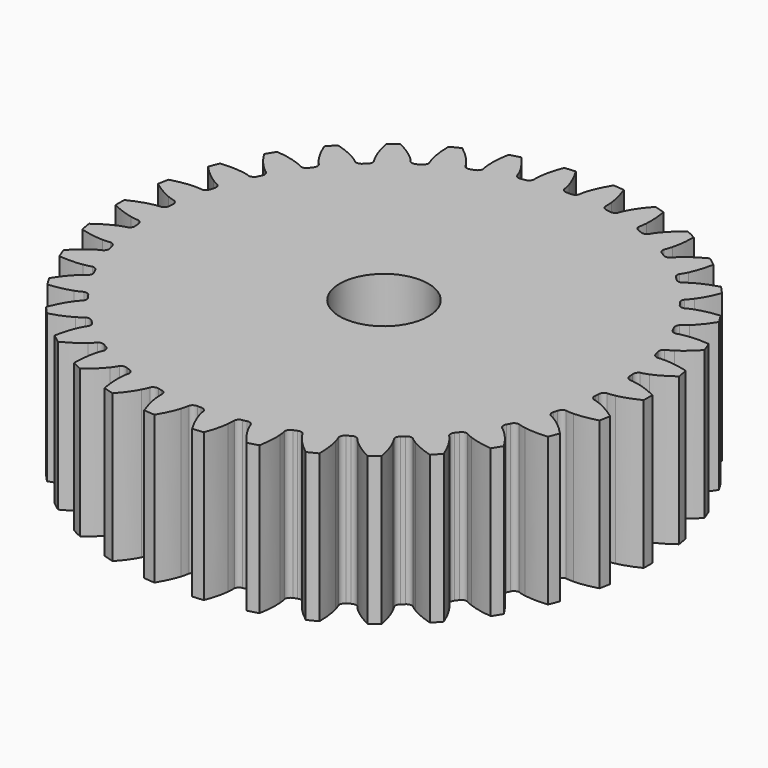
from build123d import *

# Parameters (mm, degrees)
FIRST_SUN_BORE_R        = 3
FIRST_SUN_BORE_DEPTH    = 10.1
FIRST_SUN_TRIMMED_DEPTH = 10


with BuildPart() as first_sun_bore:
    # first_sun_bore → first_sun_bore (new body)
    with BuildSketch(Plane.XY):
        Circle(FIRST_SUN_BORE_R)
    extrude(amount=FIRST_SUN_BORE_DEPTH)


with BuildPart() as first_sun:
    # first_sun_involute → first_sun_trimmed (new body)
    with BuildSketch(Plane.XY):
        with BuildLine():
            add(Edge.make_bspline(
                [(15.852769, -0.968939), (15.915021, -0.969213), (16.089876, -0.963644), (16.376696, -0.904957)],
                knots=[0, 0, 0, 0, 1, 1, 1, 1], degree=3))
            add(Edge.make_bspline(
                [(16.376696, -0.904957), (16.726092, -0.832791), (17.231559, -0.682528), (17.864782, -0.370965)],
                knots=[0, 0, 0, 0, 1, 1, 1, 1], degree=3))
            ThreePointArc((17.864782, -0.370965), (17.868633, 0), (17.864782, 0.370965))
            add(Edge.make_bspline(
                [(17.864782, 0.370965), (17.231559, 0.682528), (16.726092, 0.832791), (16.376696, 0.904957)],
                knots=[0, 0, 0, 0, 1, 1, 1, 1], degree=3))
            add(Edge.make_bspline(
                [(16.376696, 0.904957), (16.089876, 0.963644), (15.915021, 0.969213), (15.853231, 0.968932)],
                knots=[0, 0, 0, 0, 1, 1, 1, 1], degree=3))
            ThreePointArc((15.853231, 0.968932), (15.658677, 1.097378), (15.578676, 1.316352))
            ThreePointArc((15.578676, 1.316352), (15.567498, 1.442541), (15.555299, 1.568636))
            ThreePointArc((15.555299, 1.568636), (15.593543, 1.798433), (15.760888, 1.960498))
            add(Edge.make_bspline(
                [(15.760888, 1.960498), (15.822129, 1.971667), (15.992984, 2.00927), (16.264137, 2.119661)],
                knots=[0, 0, 0, 0, 1, 1, 1, 1], degree=3))
            add(Edge.make_bspline(
                [(16.264137, 2.119661), (16.594324, 2.2548), (17.063573, 2.495384), (17.628765, 2.917996)],
                knots=[0, 0, 0, 0, 1, 1, 1, 1], degree=3))
            ThreePointArc((17.628765, 2.917996), (17.564386, 3.283353), (17.492435, 3.647294))
            add(Edge.make_bspline(
                [(17.492435, 3.647294), (16.812745, 3.837198), (16.288274, 3.892023), (15.931566, 3.898759)],
                knots=[0, 0, 0, 0, 1, 1, 1, 1], degree=3))
            add(Edge.make_bspline(
                [(15.931566, 3.898759), (15.638846, 3.903743), (15.465945, 3.877087), (15.405259, 3.865458)],
                knots=[0, 0, 0, 0, 1, 1, 1, 1], degree=3))
            ThreePointArc((15.405259, 3.865458), (15.190416, 3.955968), (15.071541, 4.156513))
            ThreePointArc((15.071541, 4.156513), (15.037366, 4.2785), (15.002204, 4.400206))
            ThreePointArc((15.002204, 4.400206), (14.997572, 4.633117), (15.132288, 4.823172))
            add(Edge.make_bspline(
                [(15.132288, 4.823172), (15.190435, 4.845405), (15.351471, 4.913762), (15.597723, 5.072097)],
                knots=[0, 0, 0, 0, 1, 1, 1, 1], degree=3))
            add(Edge.make_bspline(
                [(15.597723, 5.072097), (15.897455, 5.265607), (16.314508, 5.588318), (16.792421, 6.107589)],
                knots=[0, 0, 0, 0, 1, 1, 1, 1], degree=3))
            ThreePointArc((16.792421, 6.107589), (16.662004, 6.454895), (16.524405, 6.799418))
            add(Edge.make_bspline(
                [(16.524405, 6.799418), (15.821392, 6.861196), (15.295778, 6.818716), (14.943906, 6.759793)],
                knots=[0, 0, 0, 0, 1, 1, 1, 1], degree=3))
            add(Edge.make_bspline(
                [(14.943906, 6.759793), (14.655254, 6.710905), (14.490195, 6.652932), (14.432679, 6.63035)],
                knots=[0, 0, 0, 0, 1, 1, 1, 1], degree=3))
            ThreePointArc((14.432679, 6.63035), (14.204863, 6.679841), (14.051162, 6.855128))
            ThreePointArc((14.051162, 6.855128), (13.995154, 6.968759), (13.938227, 7.081931))
            ThreePointArc((13.938227, 7.081931), (13.890876, 7.310026), (13.988377, 7.521599))
            add(Edge.make_bspline(
                [(13.988377, 7.521599), (14.041448, 7.554137), (14.187182, 7.650921), (14.400146, 7.851809)],
                knots=[0, 0, 0, 0, 1, 1, 1, 1], degree=3))
            add(Edge.make_bspline(
                [(14.400146, 7.851809), (14.659218, 8.0971), (15.009872, 8.490949), (15.384232, 9.089195)],
                knots=[0, 0, 0, 0, 1, 1, 1, 1], degree=3))
            ThreePointArc((15.384232, 9.089195), (15.192218, 9.406623), (14.993656, 9.719997))
            add(Edge.make_bspline(
                [(14.993656, 9.719997), (14.291262, 9.651544), (13.782402, 9.513206), (13.447349, 9.39063)],
                knots=[0, 0, 0, 0, 1, 1, 1, 1], degree=3))
            add(Edge.make_bspline(
                [(13.447349, 9.39063), (13.172595, 9.289535), (13.020998, 9.20222), (12.968612, 9.169454)],
                knots=[0, 0, 0, 0, 1, 1, 1, 1], degree=3))
            ThreePointArc((12.968612, 9.169454), (12.73558, 9.176241), (12.552288, 9.320301))
            ThreePointArc((12.552288, 9.320301), (12.476354, 9.421705), (12.399601, 9.522491))
            ThreePointArc((12.399601, 9.522491), (12.311144, 9.738001), (12.368108, 9.963887))
            add(Edge.make_bspline(
                [(12.368108, 9.963887), (12.414296, 10.005623), (12.539765, 10.127538), (12.71219, 10.364137)],
                knots=[0, 0, 0, 0, 1, 1, 1, 1], degree=3))
            add(Edge.make_bspline(
                [(12.71219, 10.364137), (12.921779, 10.652855), (13.194092, 11.104432), (13.452151, 11.761279)],
                knots=[0, 0, 0, 0, 1, 1, 1, 1], degree=3))
            ThreePointArc((13.452151, 11.761279), (13.205079, 12.03802), (12.952315, 12.309572))
            add(Edge.make_bspline(
                [(12.952315, 12.309572), (12.274459, 12.113221), (11.799684, 11.883736), (11.492859, 11.70168)],
                knots=[0, 0, 0, 0, 1, 1, 1, 1], degree=3))
            add(Edge.make_bspline(
                [(11.492859, 11.70168), (11.241359, 11.551821), (11.108388, 11.438137), (11.062914, 11.396302)],
                knots=[0, 0, 0, 0, 1, 1, 1, 1], degree=3))
            ThreePointArc((11.062914, 11.396302), (10.832603, 11.360155), (10.62596, 11.468082))
            ThreePointArc((10.62596, 11.468082), (10.532686, 11.553807), (10.438721, 11.638773))
            ThreePointArc((10.438721, 11.638773), (10.31217, 11.83436), (10.326658, 12.066867))
            add(Edge.make_bspline(
                [(10.326658, 12.066867), (10.364391, 12.116379), (10.465321, 12.259273), (10.591336, 12.523527)],
                knots=[0, 0, 0, 0, 1, 1, 1, 1], degree=3))
            add(Edge.make_bspline(
                [(10.591336, 12.523527), (10.744304, 12.845841), (10.929004, 13.339766), (11.061973, 14.032847)],
                knots=[0, 0, 0, 0, 1, 1, 1, 1], degree=3))
            ThreePointArc((11.061973, 14.032847), (10.768257, 14.259477), (10.4699, 14.47996))
            add(Edge.make_bspline(
                [(10.4699, 14.47996), (9.839665, 14.162396), (9.415141, 13.849579), (9.146993, 13.614244)],
                knots=[0, 0, 0, 0, 1, 1, 1, 1], degree=3))
            add(Edge.make_bspline(
                [(9.146993, 13.614244), (8.927312, 13.420724), (8.817494, 13.284542), (8.780481, 13.235064)],
                knots=[0, 0, 0, 0, 1, 1, 1, 1], degree=3))
            ThreePointArc((8.780481, 13.235064), (8.560735, 13.157212), (8.337779, 13.225331))
            ThreePointArc((8.337779, 13.225331), (8.230341, 13.292457), (8.122363, 13.358711))
            ThreePointArc((8.122363, 13.358711), (7.962028, 13.527714), (7.933546, 13.758924))
            add(Edge.make_bspline(
                [(7.933546, 13.758924), (7.961539, 13.814527), (8.034494, 13.973533), (8.109806, 14.256443)],
                knots=[0, 0, 0, 0, 1, 1, 1, 1], degree=3))
            add(Edge.make_bspline(
                [(8.109806, 14.256443), (8.200945, 14.601377), (8.291741, 15.12083), (8.295093, 15.826544)],
                knots=[0, 0, 0, 0, 1, 1, 1, 1], degree=3))
            ThreePointArc((8.295093, 15.826544), (7.964735, 15.995345), (7.630944, 16.15725))
            add(Edge.make_bspline(
                [(7.630944, 16.15725), (7.069792, 15.729288), (6.709977, 15.343791), (6.489637, 15.063191)],
                knots=[0, 0, 0, 0, 1, 1, 1, 1], degree=3))
            add(Edge.make_bspline(
                [(6.489637, 15.063191), (6.309256, 14.8326), (6.226331, 14.678557), (6.199041, 14.623121)],
                knots=[0, 0, 0, 0, 1, 1, 1, 1], degree=3))
            ThreePointArc((6.199041, 14.623121), (5.99734, 14.506216), (5.765664, 14.532207))
            ThreePointArc((5.765664, 14.532207), (5.647721, 14.578449), (5.529408, 14.623734))
            ThreePointArc((5.529408, 14.623734), (5.340749, 14.760398), (5.270266, 14.982437))
            add(Edge.make_bspline(
                [(5.270266, 14.982437), (5.287566, 15.042237), (5.330061, 15.211941), (5.352107, 15.503873)],
                knots=[0, 0, 0, 0, 1, 1, 1, 1], degree=3))
            add(Edge.make_bspline(
                [(5.352107, 15.503873), (5.378312, 15.85968), (5.372113, 16.386972), (5.245734, 17.081286)],
                knots=[0, 0, 0, 0, 1, 1, 1, 1], degree=3))
            ThreePointArc((5.245734, 17.081286), (4.889984, 17.18651), (4.532126, 17.284325))
            add(Edge.make_bspline(
                [(4.532126, 17.284325), (4.059167, 16.760538), (3.776313, 16.315489), (3.611285, 15.99918)],
                knots=[0, 0, 0, 0, 1, 1, 1, 1], degree=3))
            add(Edge.make_bspline(
                [(3.611285, 15.99918), (3.476346, 15.739369), (3.423138, 15.572712), (3.406499, 15.513205)],
                knots=[0, 0, 0, 0, 1, 1, 1, 1], degree=3))
            ThreePointArc((3.406499, 15.513205), (3.229714, 15.361229), (2.997206, 15.344207))
            ThreePointArc((2.997206, 15.344207), (2.872775, 15.367989), (2.748155, 15.390763))
            ThreePointArc((2.748155, 15.390763), (2.537596, 15.490434), (2.427514, 15.695742))
            add(Edge.make_bspline(
                [(2.427514, 15.695742), (2.433531, 15.757702), (2.44412, 15.932325), (2.412148, 16.223337)],
                knots=[0, 0, 0, 0, 1, 1, 1, 1], degree=3))
            add(Edge.make_bspline(
                [(2.412148, 16.223337), (2.372528, 16.577902), (2.269545, 17.095076), (2.017737, 17.754346)],
                knots=[0, 0, 0, 0, 1, 1, 1, 1], degree=3))
            ThreePointArc((2.017737, 17.754346), (1.648709, 17.792409), (1.278971, 17.822802))
            add(Edge.make_bspline(
                [(1.278971, 17.822802), (0.910311, 17.221028), (0.714051, 16.731582), (0.609954, 16.390335)],
                knots=[0, 0, 0, 0, 1, 1, 1, 1], degree=3))
            add(Edge.make_bspline(
                [(0.609954, 16.390335), (0.525053, 16.110153), (0.503375, 15.936558), (0.497953, 15.875006)],
                knots=[0, 0, 0, 0, 1, 1, 1, 1], degree=3))
            ThreePointArc((0.497953, 15.875006), (0.352104, 15.693133), (0.126683, 15.633678))
            ThreePointArc((0.126683, 15.633678), (0, 15.634191), (-0.126683, 15.633678))
            ThreePointArc((-0.126683, 15.633678), (-0.351971, 15.692962), (-0.497904, 15.874547))
            add(Edge.make_bspline(
                [(-0.497904, 15.874547), (-0.503375, 15.936558), (-0.525053, 16.110153), (-0.609954, 16.390335)],
                knots=[0, 0, 0, 0, 1, 1, 1, 1], degree=3))
            add(Edge.make_bspline(
                [(-0.609954, 16.390335), (-0.714051, 16.731582), (-0.910311, 17.221028), (-1.278971, 17.822802)],
                knots=[0, 0, 0, 0, 1, 1, 1, 1], degree=3))
            ThreePointArc((-1.278971, 17.822802), (-1.648709, 17.792409), (-2.017737, 17.754346))
            add(Edge.make_bspline(
                [(-2.017737, 17.754346), (-2.269545, 17.095076), (-2.372528, 16.577902), (-2.412148, 16.223337)],
                knots=[0, 0, 0, 0, 1, 1, 1, 1], degree=3))
            add(Edge.make_bspline(
                [(-2.412148, 16.223337), (-2.44412, 15.932325), (-2.433531, 15.757702), (-2.427551, 15.696202)],
                knots=[0, 0, 0, 0, 1, 1, 1, 1], degree=3))
            ThreePointArc((-2.427551, 15.696202), (-2.537497, 15.490627), (-2.748155, 15.390763))
            ThreePointArc((-2.748155, 15.390763), (-2.872775, 15.367989), (-2.997206, 15.344207))
            ThreePointArc((-2.997206, 15.344207), (-3.229552, 15.361085), (-3.406366, 15.512763))
            add(Edge.make_bspline(
                [(-3.406366, 15.512763), (-3.423138, 15.572712), (-3.476346, 15.739369), (-3.611285, 15.99918)],
                knots=[0, 0, 0, 0, 1, 1, 1, 1], degree=3))
            add(Edge.make_bspline(
                [(-3.611285, 15.99918), (-3.776313, 16.315489), (-4.059167, 16.760538), (-4.532126, 17.284325)],
                knots=[0, 0, 0, 0, 1, 1, 1, 1], degree=3))
            ThreePointArc((-4.532126, 17.284325), (-4.889984, 17.18651), (-5.245734, 17.081286))
            add(Edge.make_bspline(
                [(-5.245734, 17.081286), (-5.372113, 16.386972), (-5.378312, 15.85968), (-5.352107, 15.503873)],
                knots=[0, 0, 0, 0, 1, 1, 1, 1], degree=3))
            add(Edge.make_bspline(
                [(-5.352107, 15.503873), (-5.330061, 15.211941), (-5.287566, 15.042237), (-5.270387, 14.982883)],
                knots=[0, 0, 0, 0, 1, 1, 1, 1], degree=3))
            ThreePointArc((-5.270387, 14.982883), (-5.340687, 14.760605), (-5.529408, 14.623734))
            ThreePointArc((-5.529408, 14.623734), (-5.647721, 14.578449), (-5.765664, 14.532207))
            ThreePointArc((-5.765664, 14.532207), (-5.997155, 14.506104), (-6.198829, 14.62271))
            add(Edge.make_bspline(
                [(-6.198829, 14.62271), (-6.226331, 14.678557), (-6.309256, 14.8326), (-6.489637, 15.063191)],
                knots=[0, 0, 0, 0, 1, 1, 1, 1], degree=3))
            add(Edge.make_bspline(
                [(-6.489637, 15.063191), (-6.709977, 15.343791), (-7.069792, 15.729288), (-7.630944, 16.15725)],
                knots=[0, 0, 0, 0, 1, 1, 1, 1], degree=3))
            ThreePointArc((-7.630944, 16.15725), (-7.964735, 15.995345), (-8.295093, 15.826544))
            add(Edge.make_bspline(
                [(-8.295093, 15.826544), (-8.291741, 15.12083), (-8.200945, 14.601377), (-8.109806, 14.256443)],
                knots=[0, 0, 0, 0, 1, 1, 1, 1], degree=3))
            add(Edge.make_bspline(
                [(-8.109806, 14.256443), (-8.034494, 13.973533), (-7.961539, 13.814527), (-7.933746, 13.75934)],
                knots=[0, 0, 0, 0, 1, 1, 1, 1], degree=3))
            ThreePointArc((-7.933746, 13.75934), (-7.962006, 13.527929), (-8.122363, 13.358711))
            ThreePointArc((-8.122363, 13.358711), (-8.230341, 13.292457), (-8.337779, 13.225331))
            ThreePointArc((-8.337779, 13.225331), (-8.560531, 13.157136), (-8.780198, 13.234699))
            add(Edge.make_bspline(
                [(-8.780198, 13.234699), (-8.817494, 13.284542), (-8.927312, 13.420724), (-9.146993, 13.614244)],
                knots=[0, 0, 0, 0, 1, 1, 1, 1], degree=3))
            add(Edge.make_bspline(
                [(-9.146993, 13.614244), (-9.415141, 13.849579), (-9.839665, 14.162396), (-10.4699, 14.47996)],
                knots=[0, 0, 0, 0, 1, 1, 1, 1], degree=3))
            ThreePointArc((-10.4699, 14.47996), (-10.768257, 14.259477), (-11.061973, 14.032847))
            add(Edge.make_bspline(
                [(-11.061973, 14.032847), (-10.929004, 13.339766), (-10.744304, 12.845841), (-10.591336, 12.523527)],
                knots=[0, 0, 0, 0, 1, 1, 1, 1], degree=3))
            add(Edge.make_bspline(
                [(-10.591336, 12.523527), (-10.465321, 12.259273), (-10.364391, 12.116379), (-10.326931, 12.067239)],
                knots=[0, 0, 0, 0, 1, 1, 1, 1], degree=3))
            ThreePointArc((-10.326931, 12.067239), (-10.312188, 11.834576), (-10.438721, 11.638773))
            ThreePointArc((-10.438721, 11.638773), (-10.532686, 11.553807), (-10.62596, 11.468082))
            ThreePointArc((-10.62596, 11.468082), (-10.83239, 11.360117), (-11.062568, 11.395996))
            add(Edge.make_bspline(
                [(-11.062568, 11.395996), (-11.108388, 11.438137), (-11.241359, 11.551821), (-11.492859, 11.70168)],
                knots=[0, 0, 0, 0, 1, 1, 1, 1], degree=3))
            add(Edge.make_bspline(
                [(-11.492859, 11.70168), (-11.799684, 11.883736), (-12.274459, 12.113221), (-12.952315, 12.309572)],
                knots=[0, 0, 0, 0, 1, 1, 1, 1], degree=3))
            ThreePointArc((-12.952315, 12.309572), (-13.205079, 12.03802), (-13.452151, 11.761279))
            add(Edge.make_bspline(
                [(-13.452151, 11.761279), (-13.194092, 11.104432), (-12.921779, 10.652855), (-12.71219, 10.364137)],
                knots=[0, 0, 0, 0, 1, 1, 1, 1], degree=3))
            add(Edge.make_bspline(
                [(-12.71219, 10.364137), (-12.539765, 10.127538), (-12.414296, 10.005623), (-12.368445, 9.964203)],
                knots=[0, 0, 0, 0, 1, 1, 1, 1], degree=3))
            ThreePointArc((-12.368445, 9.964203), (-12.311201, 9.73821), (-12.399601, 9.522491))
            ThreePointArc((-12.399601, 9.522491), (-12.476354, 9.421705), (-12.552288, 9.320301))
            ThreePointArc((-12.552288, 9.320301), (-12.735364, 9.176243), (-12.968216, 9.169216))
            add(Edge.make_bspline(
                [(-12.968216, 9.169216), (-13.020998, 9.20222), (-13.172595, 9.289535), (-13.447349, 9.39063)],
                knots=[0, 0, 0, 0, 1, 1, 1, 1], degree=3))
            add(Edge.make_bspline(
                [(-13.447349, 9.39063), (-13.782402, 9.513206), (-14.291262, 9.651544), (-14.993656, 9.719997)],
                knots=[0, 0, 0, 0, 1, 1, 1, 1], degree=3))
            ThreePointArc((-14.993656, 9.719997), (-15.192218, 9.406623), (-15.384232, 9.089195))
            add(Edge.make_bspline(
                [(-15.384232, 9.089195), (-15.009872, 8.490949), (-14.659218, 8.0971), (-14.400146, 7.851809)],
                knots=[0, 0, 0, 0, 1, 1, 1, 1], degree=3))
            add(Edge.make_bspline(
                [(-14.400146, 7.851809), (-14.187182, 7.650921), (-14.041448, 7.554137), (-13.988766, 7.521848)],
                knots=[0, 0, 0, 0, 1, 1, 1, 1], degree=3))
            ThreePointArc((-13.988766, 7.521848), (-13.890971, 7.310222), (-13.938227, 7.081931))
            ThreePointArc((-13.938227, 7.081931), (-13.995154, 6.968759), (-14.051162, 6.855128))
            ThreePointArc((-14.051162, 6.855128), (-14.20465, 6.679884), (-14.432246, 6.630189))
            add(Edge.make_bspline(
                [(-14.432246, 6.630189), (-14.490195, 6.652932), (-14.655254, 6.710905), (-14.943906, 6.759793)],
                knots=[0, 0, 0, 0, 1, 1, 1, 1], degree=3))
            add(Edge.make_bspline(
                [(-14.943906, 6.759793), (-15.295778, 6.818716), (-15.821392, 6.861196), (-16.524405, 6.799418)],
                knots=[0, 0, 0, 0, 1, 1, 1, 1], degree=3))
            ThreePointArc((-16.524405, 6.799418), (-16.662004, 6.454895), (-16.792421, 6.107589))
            add(Edge.make_bspline(
                [(-16.792421, 6.107589), (-16.314508, 5.588318), (-15.897455, 5.265607), (-15.597723, 5.072097)],
                knots=[0, 0, 0, 0, 1, 1, 1, 1], degree=3))
            add(Edge.make_bspline(
                [(-15.597723, 5.072097), (-15.351471, 4.913762), (-15.190435, 4.845405), (-15.132716, 4.823345)],
                knots=[0, 0, 0, 0, 1, 1, 1, 1], degree=3))
            ThreePointArc((-15.132716, 4.823345), (-14.9977, 4.633292), (-15.002204, 4.400206))
            ThreePointArc((-15.002204, 4.400206), (-15.037366, 4.2785), (-15.071541, 4.156513))
            ThreePointArc((-15.071541, 4.156513), (-15.190214, 3.956048), (-15.404804, 3.865379))
            add(Edge.make_bspline(
                [(-15.404804, 3.865379), (-15.465945, 3.877087), (-15.638846, 3.903743), (-15.931566, 3.898759)],
                knots=[0, 0, 0, 0, 1, 1, 1, 1], degree=3))
            add(Edge.make_bspline(
                [(-15.931566, 3.898759), (-16.288274, 3.892023), (-16.812745, 3.837198), (-17.492435, 3.647294)],
                knots=[0, 0, 0, 0, 1, 1, 1, 1], degree=3))
            ThreePointArc((-17.492435, 3.647294), (-17.564386, 3.283353), (-17.628765, 2.917996))
            add(Edge.make_bspline(
                [(-17.628765, 2.917996), (-17.063573, 2.495384), (-16.594324, 2.2548), (-16.264137, 2.119661)],
                knots=[0, 0, 0, 0, 1, 1, 1, 1], degree=3))
            add(Edge.make_bspline(
                [(-16.264137, 2.119661), (-15.992984, 2.00927), (-15.822129, 1.971667), (-15.761341, 1.960589)],
                knots=[0, 0, 0, 0, 1, 1, 1, 1], degree=3))
            ThreePointArc((-15.761341, 1.960589), (-15.593701, 1.798581), (-15.555299, 1.568636))
            ThreePointArc((-15.555299, 1.568636), (-15.567498, 1.442541), (-15.578676, 1.316352))
            ThreePointArc((-15.578676, 1.316352), (-15.658494, 1.097494), (-15.852769, 0.968939))
            add(Edge.make_bspline(
                [(-15.852769, 0.968939), (-15.915021, 0.969213), (-16.089876, 0.963644), (-16.376696, 0.904957)],
                knots=[0, 0, 0, 0, 1, 1, 1, 1], degree=3))
            add(Edge.make_bspline(
                [(-16.376696, 0.904957), (-16.726092, 0.832791), (-17.231559, 0.682528), (-17.864782, 0.370965)],
                knots=[0, 0, 0, 0, 1, 1, 1, 1], degree=3))
            ThreePointArc((-17.864782, 0.370965), (-17.868633, 0), (-17.864782, -0.370965))
            add(Edge.make_bspline(
                [(-17.864782, -0.370965), (-17.231559, -0.682528), (-16.726092, -0.832791), (-16.376696, -0.904957)],
                knots=[0, 0, 0, 0, 1, 1, 1, 1], degree=3))
            add(Edge.make_bspline(
                [(-16.376696, -0.904957), (-16.089876, -0.963644), (-15.915021, -0.969213), (-15.853231, -0.968932)],
                knots=[0, 0, 0, 0, 1, 1, 1, 1], degree=3))
            ThreePointArc((-15.853231, -0.968932), (-15.658677, -1.097378), (-15.578676, -1.316352))
            ThreePointArc((-15.578676, -1.316352), (-15.567498, -1.442541), (-15.555299, -1.568636))
            ThreePointArc((-15.555299, -1.568636), (-15.593543, -1.798433), (-15.760888, -1.960498))
            add(Edge.make_bspline(
                [(-15.760888, -1.960498), (-15.822129, -1.971667), (-15.992984, -2.00927), (-16.264137, -2.119661)],
                knots=[0, 0, 0, 0, 1, 1, 1, 1], degree=3))
            add(Edge.make_bspline(
                [(-16.264137, -2.119661), (-16.594324, -2.2548), (-17.063573, -2.495384), (-17.628765, -2.917996)],
                knots=[0, 0, 0, 0, 1, 1, 1, 1], degree=3))
            ThreePointArc((-17.628765, -2.917996), (-17.564386, -3.283353), (-17.492435, -3.647294))
            add(Edge.make_bspline(
                [(-17.492435, -3.647294), (-16.812745, -3.837198), (-16.288274, -3.892023), (-15.931566, -3.898759)],
                knots=[0, 0, 0, 0, 1, 1, 1, 1], degree=3))
            add(Edge.make_bspline(
                [(-15.931566, -3.898759), (-15.638846, -3.903743), (-15.465945, -3.877087), (-15.405259, -3.865458)],
                knots=[0, 0, 0, 0, 1, 1, 1, 1], degree=3))
            ThreePointArc((-15.405259, -3.865458), (-15.190416, -3.955968), (-15.071541, -4.156513))
            ThreePointArc((-15.071541, -4.156513), (-15.037366, -4.2785), (-15.002204, -4.400206))
            ThreePointArc((-15.002204, -4.400206), (-14.997572, -4.633117), (-15.132288, -4.823172))
            add(Edge.make_bspline(
                [(-15.132288, -4.823172), (-15.190435, -4.845405), (-15.351471, -4.913762), (-15.597723, -5.072097)],
                knots=[0, 0, 0, 0, 1, 1, 1, 1], degree=3))
            add(Edge.make_bspline(
                [(-15.597723, -5.072097), (-15.897455, -5.265607), (-16.314508, -5.588318), (-16.792421, -6.107589)],
                knots=[0, 0, 0, 0, 1, 1, 1, 1], degree=3))
            ThreePointArc((-16.792421, -6.107589), (-16.662004, -6.454895), (-16.524405, -6.799418))
            add(Edge.make_bspline(
                [(-16.524405, -6.799418), (-15.821392, -6.861196), (-15.295778, -6.818716), (-14.943906, -6.759793)],
                knots=[0, 0, 0, 0, 1, 1, 1, 1], degree=3))
            add(Edge.make_bspline(
                [(-14.943906, -6.759793), (-14.655254, -6.710905), (-14.490195, -6.652932), (-14.432679, -6.63035)],
                knots=[0, 0, 0, 0, 1, 1, 1, 1], degree=3))
            ThreePointArc((-14.432679, -6.63035), (-14.204863, -6.679841), (-14.051162, -6.855128))
            ThreePointArc((-14.051162, -6.855128), (-13.995154, -6.968759), (-13.938227, -7.081931))
            ThreePointArc((-13.938227, -7.081931), (-13.890876, -7.310026), (-13.988377, -7.521599))
            add(Edge.make_bspline(
                [(-13.988377, -7.521599), (-14.041448, -7.554137), (-14.187182, -7.650921), (-14.400146, -7.851809)],
                knots=[0, 0, 0, 0, 1, 1, 1, 1], degree=3))
            add(Edge.make_bspline(
                [(-14.400146, -7.851809), (-14.659218, -8.0971), (-15.009872, -8.490949), (-15.384232, -9.089195)],
                knots=[0, 0, 0, 0, 1, 1, 1, 1], degree=3))
            ThreePointArc((-15.384232, -9.089195), (-15.192218, -9.406623), (-14.993656, -9.719997))
            add(Edge.make_bspline(
                [(-14.993656, -9.719997), (-14.291262, -9.651544), (-13.782402, -9.513206), (-13.447349, -9.39063)],
                knots=[0, 0, 0, 0, 1, 1, 1, 1], degree=3))
            add(Edge.make_bspline(
                [(-13.447349, -9.39063), (-13.172595, -9.289535), (-13.020998, -9.20222), (-12.968612, -9.169454)],
                knots=[0, 0, 0, 0, 1, 1, 1, 1], degree=3))
            ThreePointArc((-12.968612, -9.169454), (-12.73558, -9.176241), (-12.552288, -9.320301))
            ThreePointArc((-12.552288, -9.320301), (-12.476354, -9.421705), (-12.399601, -9.522491))
            ThreePointArc((-12.399601, -9.522491), (-12.311144, -9.738001), (-12.368108, -9.963887))
            add(Edge.make_bspline(
                [(-12.368108, -9.963887), (-12.414296, -10.005623), (-12.539765, -10.127538), (-12.71219, -10.364137)],
                knots=[0, 0, 0, 0, 1, 1, 1, 1], degree=3))
            add(Edge.make_bspline(
                [(-12.71219, -10.364137), (-12.921779, -10.652855), (-13.194092, -11.104432), (-13.452151, -11.761279)],
                knots=[0, 0, 0, 0, 1, 1, 1, 1], degree=3))
            ThreePointArc((-13.452151, -11.761279), (-13.205079, -12.03802), (-12.952315, -12.309572))
            add(Edge.make_bspline(
                [(-12.952315, -12.309572), (-12.274459, -12.113221), (-11.799684, -11.883736), (-11.492859, -11.70168)],
                knots=[0, 0, 0, 0, 1, 1, 1, 1], degree=3))
            add(Edge.make_bspline(
                [(-11.492859, -11.70168), (-11.241359, -11.551821), (-11.108388, -11.438137), (-11.062914, -11.396302)],
                knots=[0, 0, 0, 0, 1, 1, 1, 1], degree=3))
            ThreePointArc((-11.062914, -11.396302), (-10.832603, -11.360155), (-10.62596, -11.468082))
            ThreePointArc((-10.62596, -11.468082), (-10.532686, -11.553807), (-10.438721, -11.638773))
            ThreePointArc((-10.438721, -11.638773), (-10.31217, -11.83436), (-10.326658, -12.066867))
            add(Edge.make_bspline(
                [(-10.326658, -12.066867), (-10.364391, -12.116379), (-10.465321, -12.259273), (-10.591336, -12.523527)],
                knots=[0, 0, 0, 0, 1, 1, 1, 1], degree=3))
            add(Edge.make_bspline(
                [(-10.591336, -12.523527), (-10.744304, -12.845841), (-10.929004, -13.339766), (-11.061973, -14.032847)],
                knots=[0, 0, 0, 0, 1, 1, 1, 1], degree=3))
            ThreePointArc((-11.061973, -14.032847), (-10.768257, -14.259477), (-10.4699, -14.47996))
            add(Edge.make_bspline(
                [(-10.4699, -14.47996), (-9.839665, -14.162396), (-9.415141, -13.849579), (-9.146993, -13.614244)],
                knots=[0, 0, 0, 0, 1, 1, 1, 1], degree=3))
            add(Edge.make_bspline(
                [(-9.146993, -13.614244), (-8.927312, -13.420724), (-8.817494, -13.284542), (-8.780481, -13.235064)],
                knots=[0, 0, 0, 0, 1, 1, 1, 1], degree=3))
            ThreePointArc((-8.780481, -13.235064), (-8.560735, -13.157212), (-8.337779, -13.225331))
            ThreePointArc((-8.337779, -13.225331), (-8.230341, -13.292457), (-8.122363, -13.358711))
            ThreePointArc((-8.122363, -13.358711), (-7.962028, -13.527714), (-7.933546, -13.758924))
            add(Edge.make_bspline(
                [(-7.933546, -13.758924), (-7.961539, -13.814527), (-8.034494, -13.973533), (-8.109806, -14.256443)],
                knots=[0, 0, 0, 0, 1, 1, 1, 1], degree=3))
            add(Edge.make_bspline(
                [(-8.109806, -14.256443), (-8.200945, -14.601377), (-8.291741, -15.12083), (-8.295093, -15.826544)],
                knots=[0, 0, 0, 0, 1, 1, 1, 1], degree=3))
            ThreePointArc((-8.295093, -15.826544), (-7.964735, -15.995345), (-7.630944, -16.15725))
            add(Edge.make_bspline(
                [(-7.630944, -16.15725), (-7.069792, -15.729288), (-6.709977, -15.343791), (-6.489637, -15.063191)],
                knots=[0, 0, 0, 0, 1, 1, 1, 1], degree=3))
            add(Edge.make_bspline(
                [(-6.489637, -15.063191), (-6.309256, -14.8326), (-6.226331, -14.678557), (-6.199041, -14.623121)],
                knots=[0, 0, 0, 0, 1, 1, 1, 1], degree=3))
            ThreePointArc((-6.199041, -14.623121), (-5.99734, -14.506216), (-5.765664, -14.532207))
            ThreePointArc((-5.765664, -14.532207), (-5.647721, -14.578449), (-5.529408, -14.623734))
            ThreePointArc((-5.529408, -14.623734), (-5.340749, -14.760398), (-5.270266, -14.982437))
            add(Edge.make_bspline(
                [(-5.270266, -14.982437), (-5.287566, -15.042237), (-5.330061, -15.211941), (-5.352107, -15.503873)],
                knots=[0, 0, 0, 0, 1, 1, 1, 1], degree=3))
            add(Edge.make_bspline(
                [(-5.352107, -15.503873), (-5.378312, -15.85968), (-5.372113, -16.386972), (-5.245734, -17.081286)],
                knots=[0, 0, 0, 0, 1, 1, 1, 1], degree=3))
            ThreePointArc((-5.245734, -17.081286), (-4.889984, -17.18651), (-4.532126, -17.284325))
            add(Edge.make_bspline(
                [(-4.532126, -17.284325), (-4.059167, -16.760538), (-3.776313, -16.315489), (-3.611285, -15.99918)],
                knots=[0, 0, 0, 0, 1, 1, 1, 1], degree=3))
            add(Edge.make_bspline(
                [(-3.611285, -15.99918), (-3.476346, -15.739369), (-3.423138, -15.572712), (-3.406499, -15.513205)],
                knots=[0, 0, 0, 0, 1, 1, 1, 1], degree=3))
            ThreePointArc((-3.406499, -15.513205), (-3.229714, -15.361229), (-2.997206, -15.344207))
            ThreePointArc((-2.997206, -15.344207), (-2.872775, -15.367989), (-2.748155, -15.390763))
            ThreePointArc((-2.748155, -15.390763), (-2.537596, -15.490434), (-2.427514, -15.695742))
            add(Edge.make_bspline(
                [(-2.427514, -15.695742), (-2.433531, -15.757702), (-2.44412, -15.932325), (-2.412148, -16.223337)],
                knots=[0, 0, 0, 0, 1, 1, 1, 1], degree=3))
            add(Edge.make_bspline(
                [(-2.412148, -16.223337), (-2.372528, -16.577902), (-2.269545, -17.095076), (-2.017737, -17.754346)],
                knots=[0, 0, 0, 0, 1, 1, 1, 1], degree=3))
            ThreePointArc((-2.017737, -17.754346), (-1.648709, -17.792409), (-1.278971, -17.822802))
            add(Edge.make_bspline(
                [(-1.278971, -17.822802), (-0.910311, -17.221028), (-0.714051, -16.731582), (-0.609954, -16.390335)],
                knots=[0, 0, 0, 0, 1, 1, 1, 1], degree=3))
            add(Edge.make_bspline(
                [(-0.609954, -16.390335), (-0.525053, -16.110153), (-0.503375, -15.936558), (-0.497953, -15.875006)],
                knots=[0, 0, 0, 0, 1, 1, 1, 1], degree=3))
            ThreePointArc((-0.497953, -15.875006), (-0.352104, -15.693133), (-0.126683, -15.633678))
            ThreePointArc((-0.126683, -15.633678), (0, -15.634191), (0.126683, -15.633678))
            ThreePointArc((0.126683, -15.633678), (0.351971, -15.692962), (0.497904, -15.874547))
            add(Edge.make_bspline(
                [(0.497904, -15.874547), (0.503375, -15.936558), (0.525053, -16.110153), (0.609954, -16.390335)],
                knots=[0, 0, 0, 0, 1, 1, 1, 1], degree=3))
            add(Edge.make_bspline(
                [(0.609954, -16.390335), (0.714051, -16.731582), (0.910311, -17.221028), (1.278971, -17.822802)],
                knots=[0, 0, 0, 0, 1, 1, 1, 1], degree=3))
            ThreePointArc((1.278971, -17.822802), (1.648709, -17.792409), (2.017737, -17.754346))
            add(Edge.make_bspline(
                [(2.017737, -17.754346), (2.269545, -17.095076), (2.372528, -16.577902), (2.412148, -16.223337)],
                knots=[0, 0, 0, 0, 1, 1, 1, 1], degree=3))
            add(Edge.make_bspline(
                [(2.412148, -16.223337), (2.44412, -15.932325), (2.433531, -15.757702), (2.427551, -15.696202)],
                knots=[0, 0, 0, 0, 1, 1, 1, 1], degree=3))
            ThreePointArc((2.427551, -15.696202), (2.537497, -15.490627), (2.748155, -15.390763))
            ThreePointArc((2.748155, -15.390763), (2.872775, -15.367989), (2.997206, -15.344207))
            ThreePointArc((2.997206, -15.344207), (3.229552, -15.361085), (3.406366, -15.512763))
            add(Edge.make_bspline(
                [(3.406366, -15.512763), (3.423138, -15.572712), (3.476346, -15.739369), (3.611285, -15.99918)],
                knots=[0, 0, 0, 0, 1, 1, 1, 1], degree=3))
            add(Edge.make_bspline(
                [(3.611285, -15.99918), (3.776313, -16.315489), (4.059167, -16.760538), (4.532126, -17.284325)],
                knots=[0, 0, 0, 0, 1, 1, 1, 1], degree=3))
            ThreePointArc((4.532126, -17.284325), (4.889984, -17.18651), (5.245734, -17.081286))
            add(Edge.make_bspline(
                [(5.245734, -17.081286), (5.372113, -16.386972), (5.378312, -15.85968), (5.352107, -15.503873)],
                knots=[0, 0, 0, 0, 1, 1, 1, 1], degree=3))
            add(Edge.make_bspline(
                [(5.352107, -15.503873), (5.330061, -15.211941), (5.287566, -15.042237), (5.270387, -14.982883)],
                knots=[0, 0, 0, 0, 1, 1, 1, 1], degree=3))
            ThreePointArc((5.270387, -14.982883), (5.340687, -14.760605), (5.529408, -14.623734))
            ThreePointArc((5.529408, -14.623734), (5.647721, -14.578449), (5.765664, -14.532207))
            ThreePointArc((5.765664, -14.532207), (5.997155, -14.506104), (6.198829, -14.62271))
            add(Edge.make_bspline(
                [(6.198829, -14.62271), (6.226331, -14.678557), (6.309256, -14.8326), (6.489637, -15.063191)],
                knots=[0, 0, 0, 0, 1, 1, 1, 1], degree=3))
            add(Edge.make_bspline(
                [(6.489637, -15.063191), (6.709977, -15.343791), (7.069792, -15.729288), (7.630944, -16.15725)],
                knots=[0, 0, 0, 0, 1, 1, 1, 1], degree=3))
            ThreePointArc((7.630944, -16.15725), (7.964735, -15.995345), (8.295093, -15.826544))
            add(Edge.make_bspline(
                [(8.295093, -15.826544), (8.291741, -15.12083), (8.200945, -14.601377), (8.109806, -14.256443)],
                knots=[0, 0, 0, 0, 1, 1, 1, 1], degree=3))
            add(Edge.make_bspline(
                [(8.109806, -14.256443), (8.034494, -13.973533), (7.961539, -13.814527), (7.933746, -13.75934)],
                knots=[0, 0, 0, 0, 1, 1, 1, 1], degree=3))
            ThreePointArc((7.933746, -13.75934), (7.962006, -13.527929), (8.122363, -13.358711))
            ThreePointArc((8.122363, -13.358711), (8.230341, -13.292457), (8.337779, -13.225331))
            ThreePointArc((8.337779, -13.225331), (8.560531, -13.157136), (8.780198, -13.234699))
            add(Edge.make_bspline(
                [(8.780198, -13.234699), (8.817494, -13.284542), (8.927312, -13.420724), (9.146993, -13.614244)],
                knots=[0, 0, 0, 0, 1, 1, 1, 1], degree=3))
            add(Edge.make_bspline(
                [(9.146993, -13.614244), (9.415141, -13.849579), (9.839665, -14.162396), (10.4699, -14.47996)],
                knots=[0, 0, 0, 0, 1, 1, 1, 1], degree=3))
            ThreePointArc((10.4699, -14.47996), (10.768257, -14.259477), (11.061973, -14.032847))
            add(Edge.make_bspline(
                [(11.061973, -14.032847), (10.929004, -13.339766), (10.744304, -12.845841), (10.591336, -12.523527)],
                knots=[0, 0, 0, 0, 1, 1, 1, 1], degree=3))
            add(Edge.make_bspline(
                [(10.591336, -12.523527), (10.465321, -12.259273), (10.364391, -12.116379), (10.326931, -12.067239)],
                knots=[0, 0, 0, 0, 1, 1, 1, 1], degree=3))
            ThreePointArc((10.326931, -12.067239), (10.312188, -11.834576), (10.438721, -11.638773))
            ThreePointArc((10.438721, -11.638773), (10.532686, -11.553807), (10.62596, -11.468082))
            ThreePointArc((10.62596, -11.468082), (10.83239, -11.360117), (11.062568, -11.395996))
            add(Edge.make_bspline(
                [(11.062568, -11.395996), (11.108388, -11.438137), (11.241359, -11.551821), (11.492859, -11.70168)],
                knots=[0, 0, 0, 0, 1, 1, 1, 1], degree=3))
            add(Edge.make_bspline(
                [(11.492859, -11.70168), (11.799684, -11.883736), (12.274459, -12.113221), (12.952315, -12.309572)],
                knots=[0, 0, 0, 0, 1, 1, 1, 1], degree=3))
            ThreePointArc((12.952315, -12.309572), (13.205079, -12.03802), (13.452151, -11.761279))
            add(Edge.make_bspline(
                [(13.452151, -11.761279), (13.194092, -11.104432), (12.921779, -10.652855), (12.71219, -10.364137)],
                knots=[0, 0, 0, 0, 1, 1, 1, 1], degree=3))
            add(Edge.make_bspline(
                [(12.71219, -10.364137), (12.539765, -10.127538), (12.414296, -10.005623), (12.368445, -9.964203)],
                knots=[0, 0, 0, 0, 1, 1, 1, 1], degree=3))
            ThreePointArc((12.368445, -9.964203), (12.311201, -9.73821), (12.399601, -9.522491))
            ThreePointArc((12.399601, -9.522491), (12.476354, -9.421705), (12.552288, -9.320301))
            ThreePointArc((12.552288, -9.320301), (12.735364, -9.176243), (12.968216, -9.169216))
            add(Edge.make_bspline(
                [(12.968216, -9.169216), (13.020998, -9.20222), (13.172595, -9.289535), (13.447349, -9.39063)],
                knots=[0, 0, 0, 0, 1, 1, 1, 1], degree=3))
            add(Edge.make_bspline(
                [(13.447349, -9.39063), (13.782402, -9.513206), (14.291262, -9.651544), (14.993656, -9.719997)],
                knots=[0, 0, 0, 0, 1, 1, 1, 1], degree=3))
            ThreePointArc((14.993656, -9.719997), (15.192218, -9.406623), (15.384232, -9.089195))
            add(Edge.make_bspline(
                [(15.384232, -9.089195), (15.009872, -8.490949), (14.659218, -8.0971), (14.400146, -7.851809)],
                knots=[0, 0, 0, 0, 1, 1, 1, 1], degree=3))
            add(Edge.make_bspline(
                [(14.400146, -7.851809), (14.187182, -7.650921), (14.041448, -7.554137), (13.988766, -7.521848)],
                knots=[0, 0, 0, 0, 1, 1, 1, 1], degree=3))
            ThreePointArc((13.988766, -7.521848), (13.890971, -7.310222), (13.938227, -7.081931))
            ThreePointArc((13.938227, -7.081931), (13.995154, -6.968759), (14.051162, -6.855128))
            ThreePointArc((14.051162, -6.855128), (14.20465, -6.679884), (14.432246, -6.630189))
            add(Edge.make_bspline(
                [(14.432246, -6.630189), (14.490195, -6.652932), (14.655254, -6.710905), (14.943906, -6.759793)],
                knots=[0, 0, 0, 0, 1, 1, 1, 1], degree=3))
            add(Edge.make_bspline(
                [(14.943906, -6.759793), (15.295778, -6.818716), (15.821392, -6.861196), (16.524405, -6.799418)],
                knots=[0, 0, 0, 0, 1, 1, 1, 1], degree=3))
            ThreePointArc((16.524405, -6.799418), (16.662004, -6.454895), (16.792421, -6.107589))
            add(Edge.make_bspline(
                [(16.792421, -6.107589), (16.314508, -5.588318), (15.897455, -5.265607), (15.597723, -5.072097)],
                knots=[0, 0, 0, 0, 1, 1, 1, 1], degree=3))
            add(Edge.make_bspline(
                [(15.597723, -5.072097), (15.351471, -4.913762), (15.190435, -4.845405), (15.132716, -4.823345)],
                knots=[0, 0, 0, 0, 1, 1, 1, 1], degree=3))
            ThreePointArc((15.132716, -4.823345), (14.9977, -4.633292), (15.002204, -4.400206))
            ThreePointArc((15.002204, -4.400206), (15.037366, -4.2785), (15.071541, -4.156513))
            ThreePointArc((15.071541, -4.156513), (15.190214, -3.956048), (15.404804, -3.865379))
            add(Edge.make_bspline(
                [(15.404804, -3.865379), (15.465945, -3.877087), (15.638846, -3.903743), (15.931566, -3.898759)],
                knots=[0, 0, 0, 0, 1, 1, 1, 1], degree=3))
            add(Edge.make_bspline(
                [(15.931566, -3.898759), (16.288274, -3.892023), (16.812745, -3.837198), (17.492435, -3.647294)],
                knots=[0, 0, 0, 0, 1, 1, 1, 1], degree=3))
            ThreePointArc((17.492435, -3.647294), (17.564386, -3.283353), (17.628765, -2.917996))
            add(Edge.make_bspline(
                [(17.628765, -2.917996), (17.063573, -2.495384), (16.594324, -2.2548), (16.264137, -2.119661)],
                knots=[0, 0, 0, 0, 1, 1, 1, 1], degree=3))
            add(Edge.make_bspline(
                [(16.264137, -2.119661), (15.992984, -2.00927), (15.822129, -1.971667), (15.761341, -1.960589)],
                knots=[0, 0, 0, 0, 1, 1, 1, 1], degree=3))
            ThreePointArc((15.761341, -1.960589), (15.593701, -1.798581), (15.555299, -1.568636))
            ThreePointArc((15.555299, -1.568636), (15.567498, -1.442541), (15.578676, -1.316352))
            ThreePointArc((15.578676, -1.316352), (15.658494, -1.097494), (15.852769, -0.968939))
        make_face()
    extrude(amount=FIRST_SUN_TRIMMED_DEPTH)

    # first_sun: cut first_sun_bore
    add(first_sun_bore.part, mode=Mode.SUBTRACT)


solid = first_sun.part
